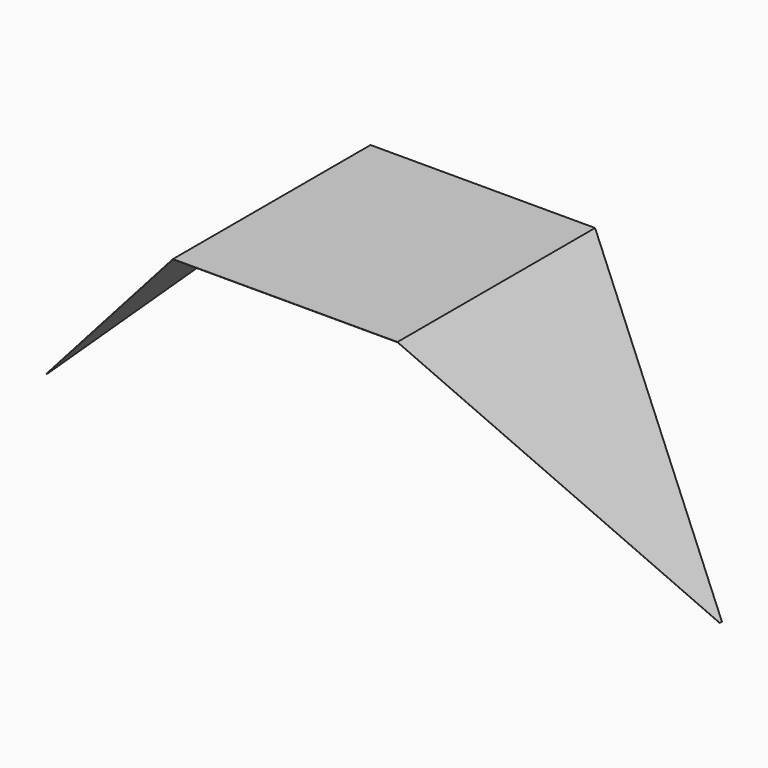
from build123d import *

# Parameters (mm, degrees)
SKETCH001_W             = 1000
SKETCH001_H             = 1100
PAD001_DEPTH            = 1
PAD002_DEPTH            = 1
BODY001_PLACEMENT_ANGLE = 180


with BuildPart() as part:
    # Sketch001 → Pad001 (new body)
    with BuildSketch(Plane.XY):
        Rectangle(SKETCH001_W, SKETCH001_H)
    extrude(amount=PAD001_DEPTH)

    with BuildSketch(Plane(origin=(-500, 0, 0), x_dir=(0.708168, 0, -0.706044), z_dir=(0.706044, 0, 0.708168))):
        Polygon((0, -550), (0, 550), (-1412.093835, 6), (-1412.093835, -6), align=None)
    pad002 = extrude(amount=PAD002_DEPTH)

    # Mirrored: Pad002 across YZ
    add(pad002.mirror(Plane.YZ))


with BuildPart() as part_1:
    # Body001 placement: moved
    add(part.part.moved(Location((0, 0, 1000))).rotate(Axis((0, 0, 1000), (1, 0, 0)), BODY001_PLACEMENT_ANGLE))


solid = part_1.part
